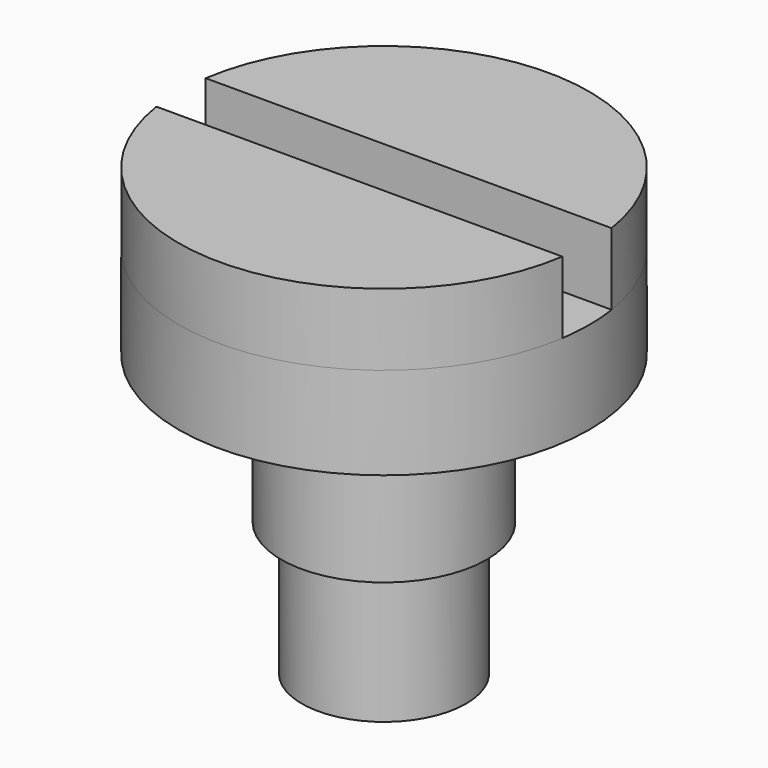
from build123d import *

# Parameters (mm, degrees)
F0_R     = 4
F1_DEPTH = 6.5
F2_R     = 5
F3_DEPTH = 7.2
F4_R     = 10
F5_DEPTH = 4.5
F7_DEPTH = 3.5


with BuildPart() as f1:
    # F0 (on Top) → F1 (new body)
    with BuildSketch(Plane.XY):
        Circle(F0_R)
    extrude(amount=F1_DEPTH)

    # F2 (on face) → F3 (join)
    with BuildSketch(Plane.XY.offset(6.5)):
        Circle(F2_R)
    extrude(amount=F3_DEPTH)

    # F4 (on face) → F5 (join)
    with BuildSketch(Plane.XY.offset(13.7)):
        Circle(F4_R)
    extrude(amount=F5_DEPTH)

    # F6 (on face) → F7 (join)
    with BuildSketch(Plane.XY.offset(18.2)):
        with BuildLine():
            ThreePointArc((-9.8868599666, -1.5), (0, -10), (9.8868599666, -1.5))
            Line((9.8868599666, -1.5), (-9.8868599666, -1.5))
        make_face()
        with BuildLine():
            Line((-9.8868599666, 1.5), (9.8868599666, 1.5))
            ThreePointArc((9.8868599666, 1.5), (0, 10), (-9.8868599666, 1.5))
        make_face()
    extrude(amount=F7_DEPTH)


solid = f1.part
